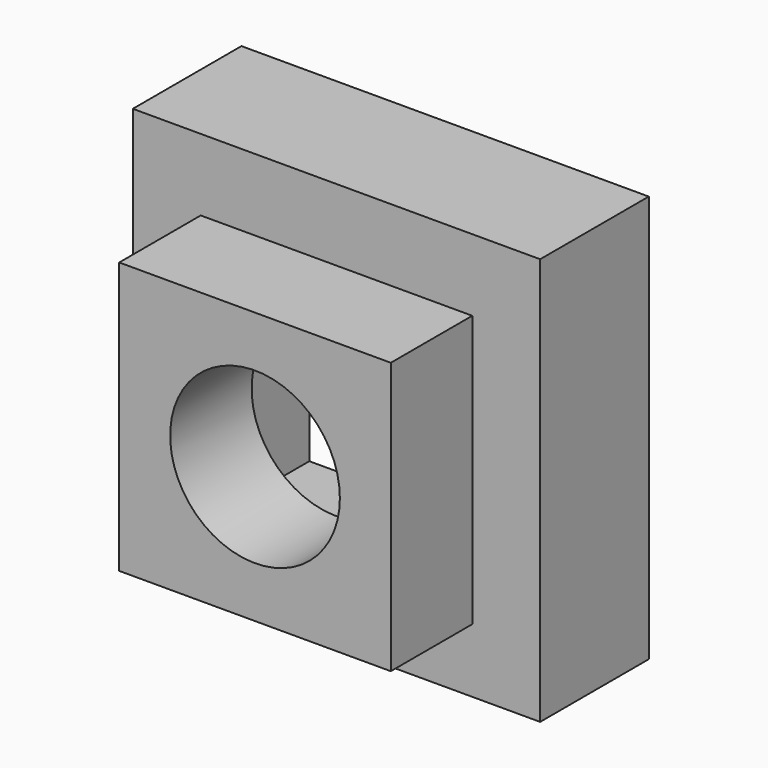
from build123d import *

# Parameters (mm, degrees)
F0_W     = 101.6
F0_H     = 101.6
F0_R     = 31.75
F1_DEPTH = 38.1
F0_W_2   = 152.4
F0_H_2   = 152.4
F2_DEPTH = 50.8


with BuildPart() as f1:
    # F0 (on Front) → F1 (new body)
    with BuildSketch(Plane.XZ):
        Rectangle(F0_W, F0_H)
        Circle(F0_R, mode=Mode.SUBTRACT)
    extrude(amount=F1_DEPTH)


with BuildPart() as f2:
    # F0 (on Front) → F2 (new body)
    with BuildSketch(Plane.XZ):
        with Locations((0, 1.474839)):
            Rectangle(F0_W_2, F0_H_2)
        Rectangle(F0_W, F0_H, mode=Mode.SUBTRACT)
    extrude(amount=-F2_DEPTH)


solid = Compound([f1.part, f2.part])
